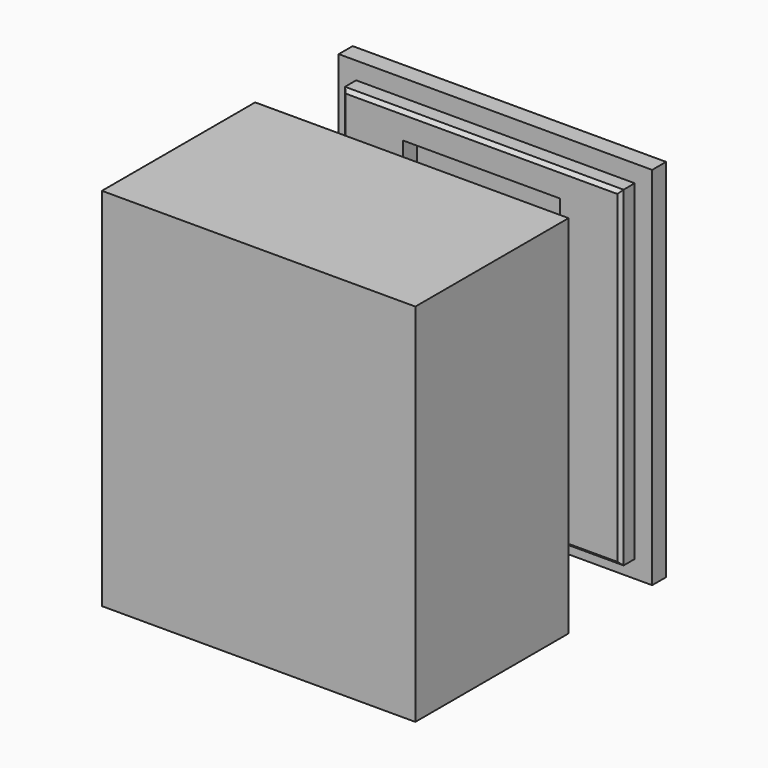
from build123d import *

# Parameters (mm, degrees)
BOX006_W        = 15
BOX006_H        = 15
BOX006_DEPTH    = 15
BOX003_W        = 10
BOX003_H        = 10
BOX003_DEPTH    = 10
BOX004_W        = 10
BOX004_H        = 10
BOX004_DEPTH    = 10
BOX005_W        = 10
BOX005_H        = 10
BOX005_DEPTH    = 10
BOX002_W        = 10
BOX002_H        = 10
BOX002_DEPTH    = 10
BOX_W           = 80
BOX_H           = 50
BOX_DEPTH       = 95
BOX001_W        = 90
BOX001_H        = 55
BOX001_DEPTH    = 105
CHAMFER_SIZE    = 1
BOX009_W        = 45
BOX009_H        = 5
BOX009_DEPTH    = 80
BOX008_W        = 80
BOX008_H        = 5
BOX008_DEPTH    = 95
BOX010_W        = 45
BOX010_H        = 5
BOX010_DEPTH    = 62
BOX007_W        = 90
BOX007_H        = 5
BOX007_DEPTH    = 105
CHAMFER001_SIZE = 1


with BuildPart() as cube006:
    # Box006 → Box006 (new body)
    with BuildSketch(Plane(origin=(-5, 13, 0), x_dir=(1, 0, 0), z_dir=(0, 0, 1))):
        with Locations((7.5, 7.5)):
            Rectangle(BOX006_W, BOX006_H)
    extrude(amount=BOX006_DEPTH)


with BuildPart() as cube003:
    # Box003 → Box003 (new body)
    with BuildSketch(Plane(origin=(70, 5, 0), x_dir=(1, 0, 0), z_dir=(0, 0, 1))):
        with Locations((5, 5)):
            Rectangle(BOX003_W, BOX003_H)
    extrude(amount=BOX003_DEPTH)


with BuildPart() as cube004:
    # Box004 → Box004 (new body)
    with BuildSketch(Plane(origin=(70, 5, 85), x_dir=(1, 0, 0), z_dir=(0, 0, 1))):
        with Locations((5, 5)):
            Rectangle(BOX004_W, BOX004_H)
    extrude(amount=BOX004_DEPTH)


with BuildPart() as cube005:
    # Box005 → Box005 (new body)
    with BuildSketch(Plane(origin=(0, 5, 85), x_dir=(1, 0, 0), z_dir=(0, 0, 1))):
        with Locations((5, 5)):
            Rectangle(BOX005_W, BOX005_H)
    extrude(amount=BOX005_DEPTH)


with BuildPart() as cube002:
    # Box002 → Box002 (new body)
    with BuildSketch(Plane(origin=(10, 5, 0), x_dir=(1, 0, 0), z_dir=(0, 0, 1))):
        with Locations((5, 5)):
            Rectangle(BOX002_W, BOX002_H)
    extrude(amount=BOX002_DEPTH)


with BuildPart() as cube:
    # Box → Box (new body)
    with BuildSketch(Plane(origin=(0, 5, 0), x_dir=(1, 0, 0), z_dir=(0, 0, 1))):
        with Locations((40, 25)):
            Rectangle(BOX_W, BOX_H)
    extrude(amount=BOX_DEPTH)


with BuildPart() as chamfer_body:
    # Box001 → Box001 (new body)
    with BuildSketch(Plane(origin=(-5, 0, -5), x_dir=(1, 0, 0), z_dir=(0, 0, 1))):
        with Locations((45, 27.5)):
            Rectangle(BOX001_W, BOX001_H)
    extrude(amount=BOX001_DEPTH)

    # Cut: cut Cube
    add(cube.part, mode=Mode.SUBTRACT)

    # Fusion: union Cube002
    add(cube002.part)

    # Fusion001: union Cube003, Cube004, Cube005
    add(cube003.part)
    add(cube004.part)
    add(cube005.part)

    # Cut001: cut Cube006
    add(cube006.part, mode=Mode.SUBTRACT)

    # Chamfer
    chamfer_edges = [chamfer_body.edges().sort_by_distance(p)[0] for p in [
        (40, 55, 95),
        (80, 55, 47.5),
        (40, 55, 0),
        (0, 55, 47.5),
    ]]
    chamfer(chamfer_edges, length=CHAMFER_SIZE)


with BuildPart() as cube009:
    # Box009 → Box009 (new body)
    with BuildSketch(Plane(origin=(17.5, 80, 7.5), x_dir=(1, 0, 0), z_dir=(0, 0, 1))):
        with Locations((22.5, 2.5)):
            Rectangle(BOX009_W, BOX009_H)
    extrude(amount=BOX009_DEPTH)


with BuildPart() as cut002:
    # Box008 → Box008 (new body)
    with BuildSketch(Plane(origin=(0, 80, 0), x_dir=(1, 0, 0), z_dir=(0, 0, 1))):
        with Locations((40, 2.5)):
            Rectangle(BOX008_W, BOX008_H)
    extrude(amount=BOX008_DEPTH)

    # Cut002: cut Cube009
    add(cube009.part, mode=Mode.SUBTRACT)


with BuildPart() as cube010:
    # Box010 → Box010 (new body)
    with BuildSketch(Plane(origin=(17.5, 85, 14.5), x_dir=(1, 0, 0), z_dir=(0, 0, 1))):
        with Locations((22.5, 2.5)):
            Rectangle(BOX010_W, BOX010_H)
    extrude(amount=BOX010_DEPTH)


with BuildPart() as chamfer001:
    # Box007 → Box007 (new body)
    with BuildSketch(Plane(origin=(-5, 85, -5), x_dir=(1, 0, 0), z_dir=(0, 0, 1))):
        with Locations((45, 2.5)):
            Rectangle(BOX007_W, BOX007_H)
    extrude(amount=BOX007_DEPTH)

    # Cut003: cut Cube010
    add(cube010.part, mode=Mode.SUBTRACT)

    # Fusion002: union Cut002
    add(cut002.part)

    # Chamfer001
    chamfer001_edges = [chamfer001.edges().sort_by_distance(p)[0] for p in [
        (40, 80, 95),
        (80, 80, 47.5),
        (40, 80, 0),
        (0, 80, 47.5),
    ]]
    chamfer(chamfer001_edges, length=CHAMFER001_SIZE)


solid = Compound([chamfer_body.part, chamfer001.part])
